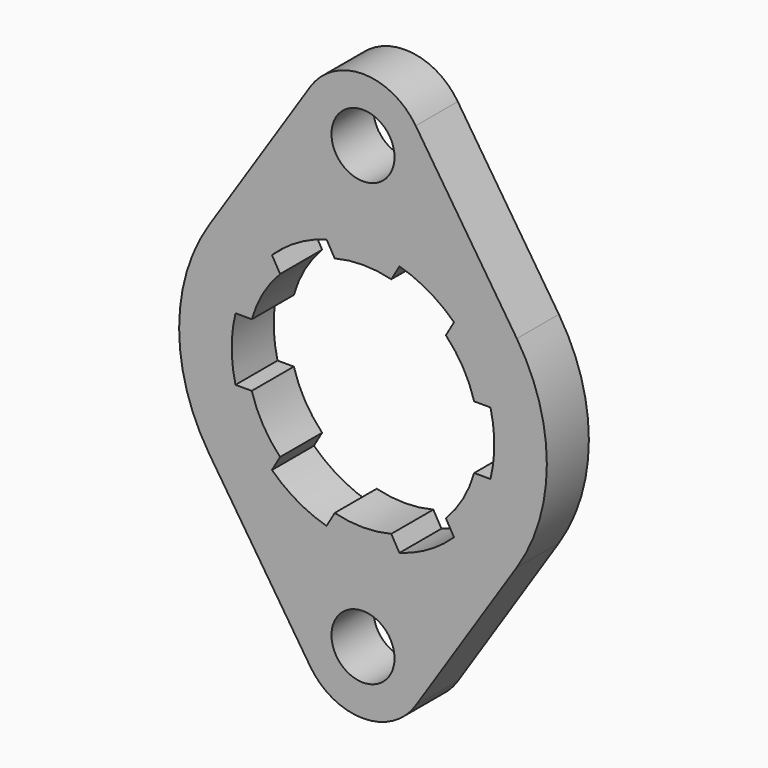
from build123d import *

# Parameters (mm, degrees)
F0_R     = 17.5
F1_DEPTH = 2.5
F2_R     = 3
F3_DEPTH = 5


with BuildPart() as f1:
    # F0 (on Front) → F1 (new body, symmetric)
    with BuildSketch(Plane.XZ):
        Circle(F0_R)
        with BuildLine():
            ThreePointArc((-3.4692543384, -12.0089247785), (-6.25, -10.8253175473), (-8.6654067611, -9.0089247785))
            Line((-8.6654067611, -9.0089247785), (-7.8895788335, -7.6651513899))
            ThreePointArc((-7.8895788335, -7.6651513899), (-9.5262794416, -5.5), (-10.5830052443, -3))
            Line((-10.5830052443, -3), (-12.1346610995, -3))
            ThreePointArc((-12.1346610995, -3), (-12.5, 0), (-12.1346610995, 3))
            Line((-12.1346610995, 3), (-10.5830052443, 3))
            ThreePointArc((-10.5830052443, 3), (-9.5262794416, 5.5), (-7.8895788335, 7.6651513899))
            Line((-7.8895788335, 7.6651513899), (-8.6654067611, 9.0089247785))
            ThreePointArc((-8.6654067611, 9.0089247785), (-6.25, 10.8253175473), (-3.4692543384, 12.0089247785))
            Line((-3.4692543384, 12.0089247785), (-2.6934264108, 10.6651513899))
            ThreePointArc((-2.6934264108, 10.6651513899), (0, 11), (2.6934264108, 10.6651513899))
            Line((2.6934264108, 10.6651513899), (3.4692543384, 12.0089247785))
            ThreePointArc((3.4692543384, 12.0089247785), (6.25, 10.8253175473), (8.6654067611, 9.0089247785))
            Line((8.6654067611, 9.0089247785), (7.8895788335, 7.6651513899))
            ThreePointArc((7.8895788335, 7.6651513899), (9.5262794416, 5.5), (10.5830052443, 3))
            Line((10.5830052443, 3), (12.1346610995, 3))
            ThreePointArc((12.1346610995, 3), (12.5, 0), (12.1346610995, -3))
            Line((12.1346610995, -3), (10.5830052443, -3))
            ThreePointArc((10.5830052443, -3), (9.5262794416, -5.5), (7.8895788335, -7.6651513899))
            Line((7.8895788335, -7.6651513899), (8.6654067611, -9.0089247785))
            ThreePointArc((8.6654067611, -9.0089247785), (6.25, -10.8253175473), (3.4692543384, -12.0089247785))
            Line((3.4692543384, -12.0089247785), (2.6934264108, -10.6651513899))
            ThreePointArc((2.6934264108, -10.6651513899), (0, -11), (-2.6934264108, -10.6651513899))
            Line((-2.6934264108, -10.6651513899), (-3.4692543384, -12.0089247785))
        make_face(mode=Mode.SUBTRACT)
    extrude(amount=F1_DEPTH, both=True)

    # F2 (on face) → F3 (join, through all)
    with BuildSketch(Plane.XZ.offset(2.5)):
        with BuildLine():
            Line((-5.0203666831, 24.2857142857), (-14.642736159, 9.5833333333))
            ThreePointArc((-14.642736159, 9.5833333333), (0, 17.5), (14.642736159, 9.5833333333))
            Line((14.642736159, 9.5833333333), (5.0203666831, 24.2857142857))
            ThreePointArc((5.0203666831, 24.2857142857), (0, 27), (-5.0203666831, 24.2857142857))
        make_face()
        with Locations((0, 21)):
            Circle(F2_R, mode=Mode.SUBTRACT)
        with BuildLine():
            ThreePointArc((14.642736159, -9.5833333333), (0, -17.5), (-14.642736159, -9.5833333333))
            Line((-14.642736159, -9.5833333333), (-5.0203666831, -24.2857142857))
            ThreePointArc((-5.0203666831, -24.2857142857), (0, -27), (5.0203666831, -24.2857142857))
            Line((5.0203666831, -24.2857142857), (14.642736159, -9.5833333333))
        make_face()
        with Locations((0, -21)):
            Circle(F2_R, mode=Mode.SUBTRACT)
    extrude(amount=-F3_DEPTH)


solid = f1.part
